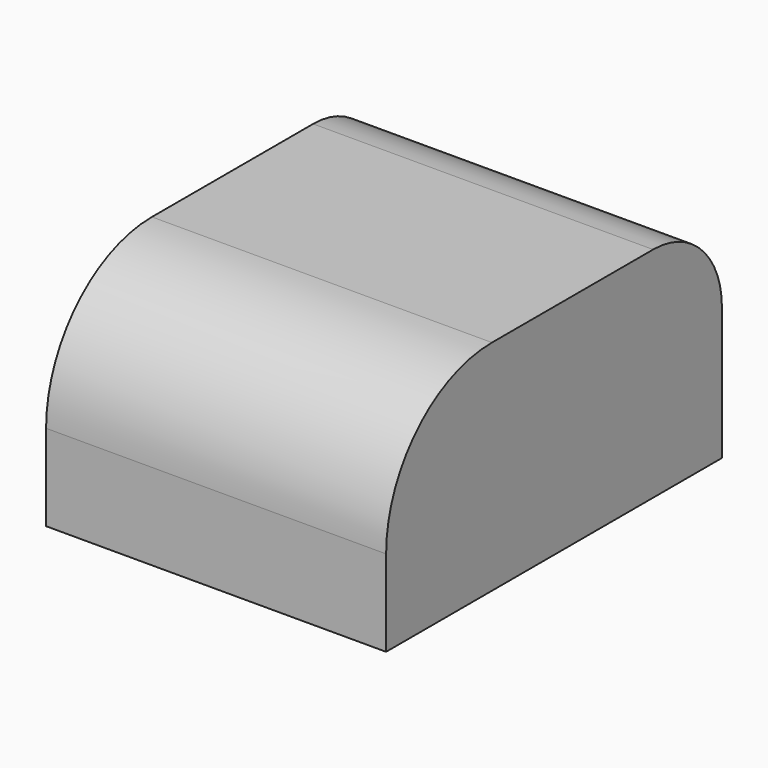
from build123d import *

# Parameters (mm, degrees)
F0_W     = 75.997784
F0_H     = 48.82941
F1_DEPTH = 93.811005
F2_R     = 19.21578
F3_R     = 29.563082


with BuildPart() as f1:
    # F0 (on Front) → F1 (new body)
    with BuildSketch(Plane.XZ):
        with Locations((46.23688, 43.56139)):
            Rectangle(F0_W, F0_H)
    extrude(amount=-F1_DEPTH)

    # F2
    f2_edges = [f1.edges().sort_by_distance(p)[0] for p in [
        (46.23688, 93.811005, 67.976095),
    ]]
    fillet(f2_edges, radius=F2_R)

    # F3
    f3_edges = [f1.edges().sort_by_distance(p)[0] for p in [
        (46.23688, 0, 67.976095),
    ]]
    fillet(f3_edges, radius=F3_R)


solid = f1.part
